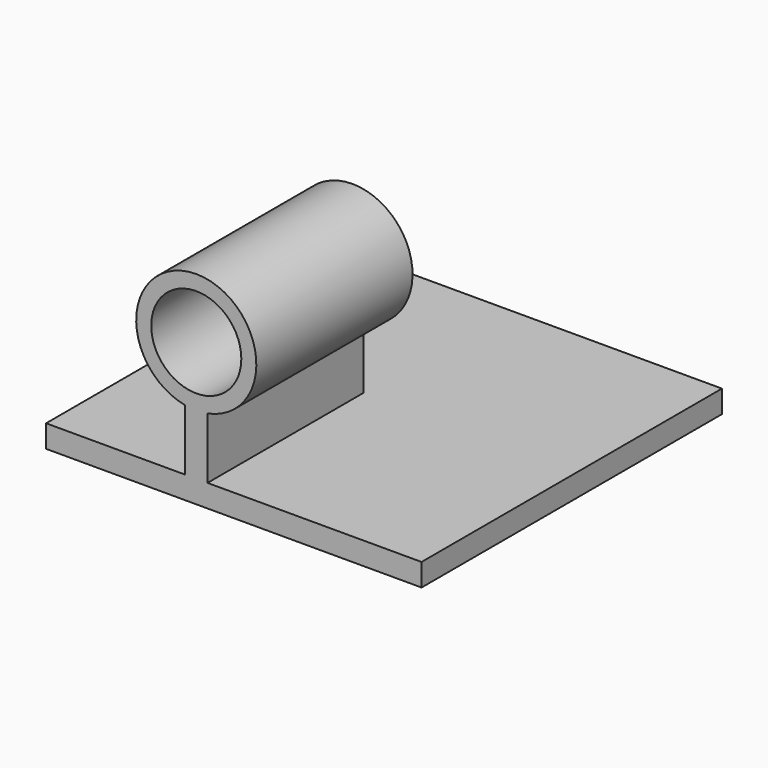
from build123d import *

# Parameters (mm, degrees)
F0_W     = 250
F0_H     = 250
F1_DEPTH = 15
F2_R     = 30
F3_DEPTH = 130


with BuildPart() as f1:
    # F0 (on Top) → F1 (new body)
    with BuildSketch(Plane.XY):
        Rectangle(F0_W, F0_H)
    extrude(amount=F1_DEPTH)

    # F2 (on face) → F3 (join)
    with BuildSketch(Plane.XZ.offset(125)):
        with BuildLine():
            Line((-17.5, 15), (-17.5, 55.709416))
            ThreePointArc((-17.5, 55.709416), (-25, 135), (-32.5, 55.709416))
            Line((-32.5, 55.709416), (-32.5, 15))
            Line((-32.5, 15), (-17.5, 15))
        make_face()
        with Locations((-25, 95)):
            Circle(F2_R, mode=Mode.SUBTRACT)
    extrude(amount=-F3_DEPTH)


solid = f1.part
